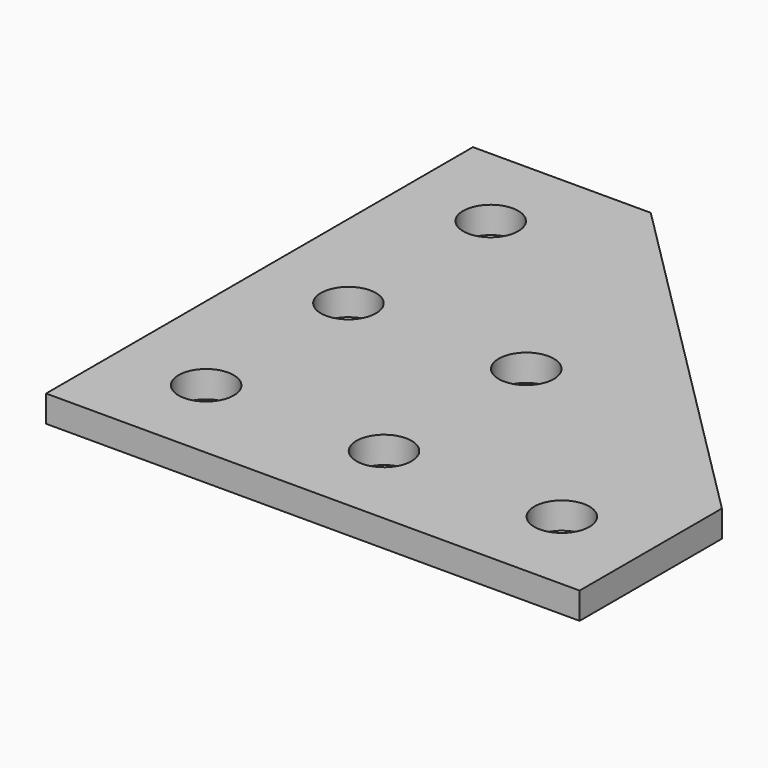
from build123d import *

# Parameters (mm, degrees)
SKETCH_R  = 3.1
PAD_DEPTH = 3


with BuildPart() as part:
    # Sketch → Pad (new body)
    with BuildSketch(Plane.XY):
        Polygon((0, 60), (20, 60), (60, 20), (60, 0), (0, 0), align=None)
        with Locations((10, 10)):
            Circle(SKETCH_R, mode=Mode.SUBTRACT)
        with Locations((10, 30)):
            Circle(SKETCH_R, mode=Mode.SUBTRACT)
        with Locations((10, 50)):
            Circle(SKETCH_R, mode=Mode.SUBTRACT)
        with Locations((30, 10)):
            Circle(SKETCH_R, mode=Mode.SUBTRACT)
        with Locations((50, 10)):
            Circle(SKETCH_R, mode=Mode.SUBTRACT)
        with Locations((30, 30)):
            Circle(SKETCH_R, mode=Mode.SUBTRACT)
    extrude(amount=PAD_DEPTH)


solid = part.part
